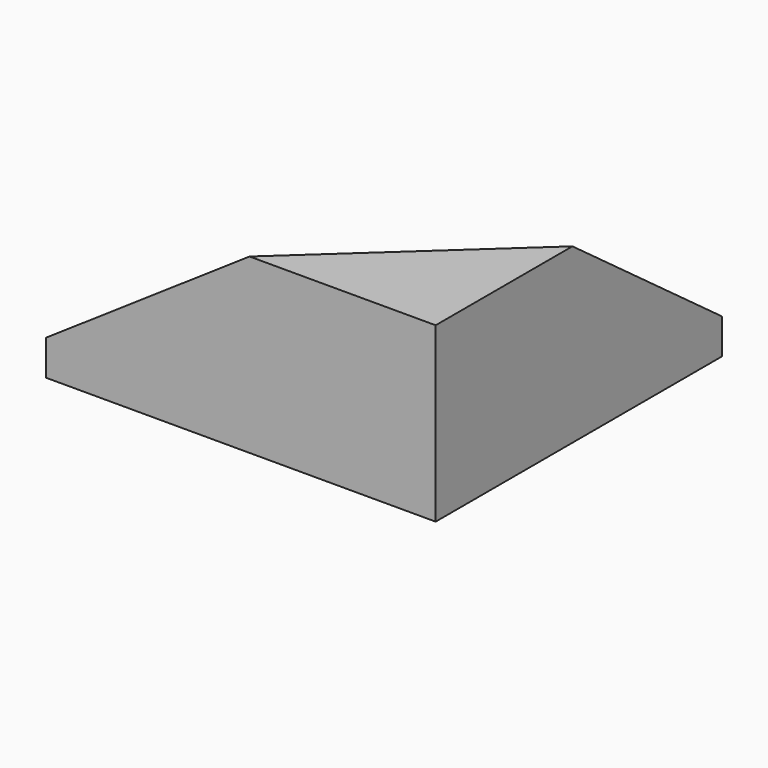
from build123d import *

# Parameters (mm, degrees)
F1_DEPTH = 12.446
F2_SIZE  = 9.906


with BuildPart() as f1:
    # F0 (on Top) → F1 (new body)
    with BuildSketch(Plane.XY):
        Polygon((-28.041599, 0), (0, 0), (0, 25.755599), align=None)
    extrude(amount=F1_DEPTH)

    # F2
    f2_edges = [f1.edges().sort_by_distance(p)[0] for p in [
        (-14.0208, 12.8778, 12.446),
    ]]
    chamfer(f2_edges, length=F2_SIZE)


solid = f1.part
